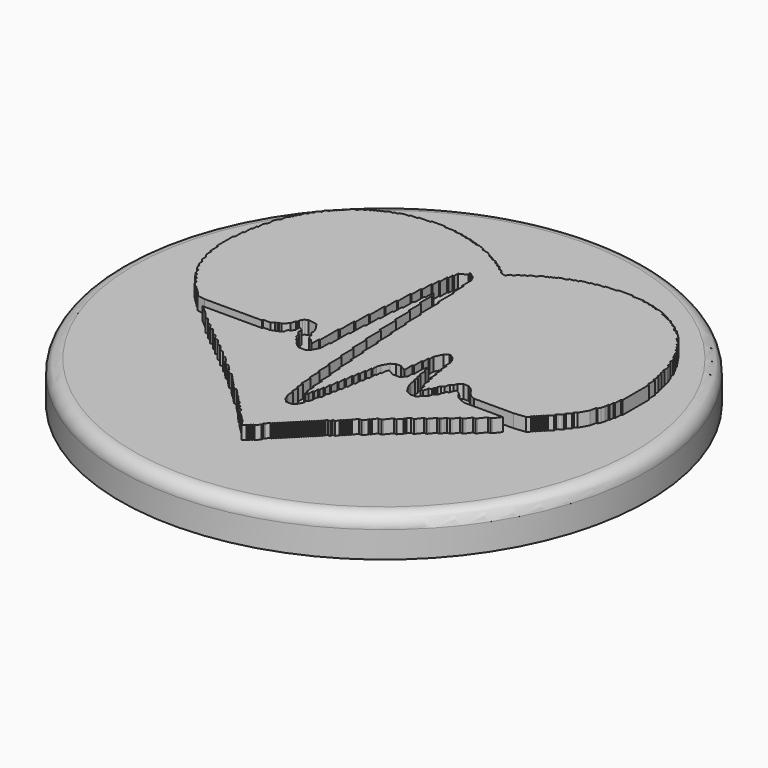
from build123d import *

# Parameters (mm, degrees)
F0_W     = 20
F0_H     = 3
F4_DEPTH = 1
F5_R     = 1


with BuildPart() as f1:
    # F0 (on Front) → F1 (revolve)
    with BuildSketch(Plane.XZ):
        with Locations((-10, 1.5)):
            Rectangle(F0_W, F0_H)
    revolve(axis=Axis((0, 0, 1.5), (0, 0, 1)))

    # F3 (on offset) → F4 (join)
    with BuildSketch(Plane.XY.offset(3)):
        Polygon((-6.828087, 14), (-7.602906, 14), (-7.602906, 13.903148), (-7.893462, 13.903148), (-8.184019, 13.903148), (-8.474576, 13.903148), (-8.474576, 13.806295), (-9.05569, 13.806295), (-9.05569, 13.709443), (-9.443099, 13.709443), (-9.733656, 13.612591), (-9.733656, 13.515738), (-10.024213, 13.515738), (-10.024213, 13.418886), (-10.31477, 13.418886), (-10.508475, 13.225182), (-10.702179, 13.225182), (-10.702179, 13.128329), (-10.895884, 13.128329), (-10.895884, 13.031477), (-11.089588, 13.031477), (-11.089588, 12.934625), (-11.283293, 12.934625), (-11.283293, 12.837772), (-11.476998, 12.837772), (-11.57385, 12.644068), (-11.767554, 12.644068), (-11.961259, 12.353511), (-12.154964, 12.353511), (-12.251816, 12.256659), (-12.445521, 12.062954), (-12.445521, 11.966102), (-12.542373, 11.966102), (-12.542373, 11.869249), (-12.639225, 11.869249), (-12.639225, 11.772397), (-12.736077, 11.772397), (-12.736077, 11.675545), (-12.83293, 11.675545), (-12.83293, 11.578692), (-12.929782, 11.578692), (-12.929782, 11.48184), (-13.026634, 11.48184), (-13.026634, 11.384988), (-13.123487, 11.384988), (-13.123487, 11.288136), (-13.414044, 11.094431), (-13.414044, 10.900726), (-13.7046, 10.707022), (-13.7046, 10.513317), (-13.898305, 10.416465), (-13.898305, 10.22276), (-14.09201, 10.125908), (-14.188862, 9.738499), (-14.285714, 9.738499), (-14.285714, 9.544794), (-14.382567, 9.544794), (-14.382567, 9.35109), (-14.479419, 9.35109), (-14.479419, 9.157385), (-14.576271, 9.157385), (-14.673123, 8.96368), (-14.673123, 8.673123), (-14.866828, 8.479419), (-14.96368, 8.188862), (-14.96368, 7.801453), (-15.157385, 7.510896), (-15.157385, 7.026634), (-15.254237, 7.026634), (-15.254237, 6.639225), (-15.35109, 6.639225), (-15.35109, 5.961259), (-15.447942, 5.961259), (-15.447942, 5.186441), (-15.544794, 5.186441), (-15.544794, 4.895884), (-15.544794, 4.508475), (-15.544794, 4.411622), (-15.544794, 4.31477), (-15.544794, 4.217918), (-15.544794, 3.636804), (-15.447942, 3.636804), (-15.447942, 2.861985), (-15.35109, 2.861985), (-15.35109, 2.377724), (-15.157385, 2.087167), (-15.157385, 1.699758), (-14.96368, 1.506053), (-14.96368, 1.215496), (-14.866828, 1.021792), (-14.769976, 1.021792), (-14.769976, 0.828087), (-14.673123, 0.634383), (-14.479419, 0.53753), (-14.382567, 0.150121), (-14.188862, 0.053269), (-14.188862, -0.140436), (-13.898305, -0.33414), (-13.898305, -0.527845), (-13.607748, -0.72155), (-13.607748, -0.915254), (-13.510896, -1.012107), (-13.317191, -1.205811), (-13.220339, -1.205811), (-13.220339, -1.302663), (-13.123487, -1.302663), (-13.123487, -1.399516), (-13.026634, -1.399516), (-13.026634, -1.496368), (-12.929782, -1.496368), (-12.929782, -1.59322), (-12.83293, -1.59322), (-12.83293, -1.690073), (-12.736077, -1.690073), (-12.445521, -2.077482), (-11.864407, -2.174334), (-11.767554, -2.174334), (-11.670702, -2.174334), (-11.57385, -2.174334), (-11.476998, -2.174334), (-11.380145, -2.174334), (-11.283293, -2.174334), (-11.186441, -2.174334), (-11.089588, -2.174334), (-10.992736, -2.174334), (-10.895884, -2.174334), (-10.799031, -2.174334), (-10.702179, -2.174334), (-10.605327, -2.174334), (-10.508475, -2.174334), (-10.411622, -2.174334), (-10.31477, -2.174334), (-10.217918, -2.174334), (-10.121065, -2.174334), (-10.024213, -2.174334), (-9.927361, -2.174334), (-9.830508, -2.174334), (-9.733656, -2.174334), (-9.636804, -2.174334), (-9.539952, -2.174334), (-9.443099, -2.174334), (-9.346247, -2.174334), (-9.249395, -2.174334), (-9.152542, -2.174334), (-9.05569, -2.174334), (-8.958838, -2.174334), (-8.861985, -2.174334), (-8.765133, -2.174334), (-8.668281, -2.174334), (-8.571429, -2.174334), (-8.474576, -2.174334), (-8.377724, -2.174334), (-8.280872, -2.174334), (-8.184019, -2.174334), (-8.087167, -2.174334), (-7.506053, -2.174334), (-7.506053, -2.077482), (-6.924939, -2.077482), (-6.731235, -1.883777), (-6.53753, -1.883777), (-6.53753, -1.786925), (-6.343826, -1.786925), (-5.956416, -1.399516), (-5.859564, -1.012107), (-5.762712, -1.012107), (-5.762712, -0.818402), (-5.66586, -0.624697), (-5.569007, -0.527845), (-5.375303, -0.430993), (-4.697337, -0.527845), (-4.40678, -0.915254), (-4.213075, -1.302663), (-4.213075, -1.59322), (-4.116223, -1.786925), (-4.01937, -1.786925), (-4.01937, -1.98063), (-3.922518, -2.174334), (-3.728814, -2.271186), (-3.341404, -2.658596), (-3.341404, -1.98063), (-3.244552, -1.98063), (-3.244552, -1.690073), (-3.244552, -1.302663), (-3.244552, -1.205811), (-3.244552, -1.108959), (-3.244552, -1.012107), (-3.244552, -0.915254), (-3.244552, -0.818402), (-3.244552, -0.72155), (-3.244552, -0.624697), (-3.244552, -0.237288), (-3.1477, -0.237288), (-3.1477, 0.053269), (-3.1477, 0.440678), (-3.1477, 0.53753), (-3.1477, 0.634383), (-3.1477, 0.731235), (-3.1477, 1.118644), (-3.050847, 1.118644), (-3.050847, 1.409201), (-3.050847, 2.377724), (-2.953995, 2.377724), (-2.953995, 2.668281), (-2.953995, 3.05569), (-2.953995, 3.152542), (-2.953995, 3.249395), (-2.953995, 3.346247), (-2.953995, 3.733656), (-2.857143, 3.733656), (-2.857143, 4.024213), (-2.857143, 4.799031), (-2.760291, 4.799031), (-2.760291, 5.089588), (-2.760291, 5.961259), (-2.663438, 5.961259), (-2.663438, 6.251816), (-2.663438, 6.542373), (-2.663438, 6.83293), (-2.566586, 6.83293), (-2.566586, 7.123487), (-2.566586, 7.414044), (-2.566586, 7.7046), (-2.469734, 7.7046), (-2.469734, 8.285714), (-2.372881, 8.285714), (-2.372881, 8.96368), (-2.276029, 8.96368), (-2.276029, 9.35109), (-2.179177, 9.35109), (-2.179177, 9.738499), (-1.598063, 10.029056), (-1.694915, 10.22276), (-1.598063, 10.22276), (-1.210654, 9.932203), (-1.016949, 9.544794), (-1.016949, 9.35109), (-1.016949, 8.673123), (-0.920097, 8.673123), (-0.920097, 8.382567), (-0.920097, 7.7046), (-0.823245, 7.7046), (-0.823245, 7.414044), (-0.823245, 7.026634), (-0.823245, 6.929782), (-0.823245, 6.83293), (-0.823245, 6.736077), (-0.823245, 6.154964), (-0.726392, 6.154964), (-0.726392, 5.864407), (-0.726392, 5.476998), (-0.726392, 5.380145), (-0.726392, 5.283293), (-0.726392, 5.186441), (-0.726392, 5.089588), (-0.726392, 4.992736), (-0.726392, 4.895884), (-0.726392, 4.799031), (-0.726392, 4.31477), (-0.62954, 4.31477), (-0.62954, 4.024213), (-0.62954, 3.636804), (-0.62954, 3.539952), (-0.62954, 3.443099), (-0.62954, 3.346247), (-0.62954, 2.765133), (-0.532688, 2.765133), (-0.532688, 2.474576), (-0.532688, 2.087167), (-0.532688, 1.990315), (-0.532688, 1.893462), (-0.532688, 1.79661), (-0.532688, 1.312349), (-0.435835, 1.312349), (-0.435835, 1.021792), (-0.435835, 0.634383), (-0.435835, 0.53753), (-0.435835, 0.440678), (-0.435835, 0.343826), (-0.435835, -0.140436), (-0.338983, -0.140436), (-0.338983, -0.430993), (-0.338983, -0.818402), (-0.338983, -0.915254), (-0.338983, -1.012107), (-0.338983, -1.108959), (-0.338983, -1.59322), (-0.242131, -1.59322), (-0.242131, -1.883777), (-0.242131, -2.8523), (-0.145278, -2.8523), (-0.145278, -3.142857), (-0.145278, -4.11138), (-0.048426, -4.11138), (-0.048426, -4.401937), (-0.048426, -5.079903), (0.048426, -5.079903), (0.048426, -5.37046), (0.048426, -6.048426), (0.145278, -6.048426), (0.145278, -6.338983), (0.145278, -6.62954), (0.145278, -6.920097), (0.242131, -6.920097), (0.242131, -7.598063), (0.338983, -7.598063), (0.338983, -7.985472), (0.435835, -7.985472), (0.532688, -7.791768), (0.532688, -7.404358), (0.62954, -7.404358), (0.62954, -7.016949), (0.726392, -7.016949), (0.726392, -6.62954), (0.823245, -6.62954), (0.823245, -6.145278), (0.920097, -6.145278), (0.920097, -5.564165), (1.016949, -5.564165), (1.016949, -4.983051), (1.113801, -4.983051), (1.113801, -4.401937), (1.210654, -4.401937), (1.210654, -3.917676), (1.307506, -3.917676), (1.307506, -3.433414), (1.404358, -3.433414), (1.404358, -2.949153), (1.501211, -2.949153), (1.501211, -2.561743), (1.598063, -2.271186), (1.88862, -1.786925), (2.179177, -1.59322), (2.566586, -1.59322), (3.050847, -1.883777), (3.050847, -1.108959), (3.1477, -1.108959), (3.1477, -0.33414), (3.244552, -0.33414), (3.244552, 0.150121), (3.341404, 0.150121), (3.341404, 0.53753), (3.631961, 1.118644), (3.922518, 1.312349), (4.01937, 1.312349), (4.309927, 1.118644), (4.503632, 0.828087), (4.600484, 0.53753), (4.600484, 0.053269), (4.697337, 0.053269), (4.697337, -0.527845), (4.794189, -0.527845), (4.794189, -1.108959), (4.891041, -1.108959), (4.891041, -1.690073), (4.987893, -1.690073), (4.987893, -2.077482), (5.084746, -2.077482), (5.084746, -2.464891), (5.181598, -2.755448), (5.27845, -2.755448), (5.375303, -3.239709), (5.569007, -3.239709), (5.66586, -2.8523), (5.859564, -2.755448), (5.859564, -2.561743), (5.956416, -2.561743), (5.956416, -2.368039), (6.053269, -2.174334), (6.246973, -2.077482), (6.343826, -1.690073), (6.53753, -1.59322), (6.634383, -1.302663), (6.924939, -1.108959), (7.312349, -1.108959), (7.602906, -1.302663), (7.79661, -1.496368), (7.79661, -1.59322), (7.893462, -1.59322), (7.893462, -1.690073), (8.184019, -1.98063), (8.571429, -2.174334), (8.958838, -2.174334), (9.05569, -2.174334), (9.152542, -2.174334), (9.249395, -2.174334), (9.346247, -2.174334), (9.443099, -2.174334), (9.539952, -2.174334), (9.636804, -2.174334), (9.733656, -2.174334), (9.830508, -2.174334), (9.927361, -2.174334), (10.024213, -2.174334), (10.121065, -2.174334), (10.217918, -2.174334), (10.31477, -2.174334), (10.411622, -2.174334), (10.508475, -2.174334), (10.605327, -2.174334), (10.702179, -2.174334), (10.799031, -2.174334), (10.895884, -2.174334), (10.992736, -2.174334), (11.089588, -2.174334), (11.186441, -2.174334), (11.283293, -2.174334), (11.380145, -2.174334), (11.476998, -2.174334), (11.57385, -2.174334), (12.445521, -2.077482), (12.639225, -1.883777), (12.639225, -1.786925), (12.736077, -1.786925), (12.736077, -1.690073), (12.83293, -1.690073), (12.83293, -1.59322), (12.929782, -1.59322), (12.929782, -1.496368), (13.026634, -1.496368), (13.026634, -1.399516), (13.123487, -1.399516), (13.123487, -1.302663), (13.220339, -1.302663), (13.220339, -1.205811), (13.317191, -1.205811), (13.317191, -1.108959), (13.607748, -0.915254), (13.607748, -0.72155), (13.7046, -0.624697), (13.898305, -0.527845), (13.995157, -0.430993), (13.995157, -0.237288), (14.285714, -0.043584), (14.285714, 0.150121), (14.479419, 0.246973), (14.866828, 0.924939), (14.96368, 1.409201), (15.060533, 1.409201), (15.157385, 1.602906), (15.254237, 1.893462), (15.254237, 2.184019), (15.35109, 2.184019), (15.35109, 2.571429), (15.447942, 2.571429), (15.447942, 3.152542), (15.544794, 3.152542), (15.544794, 3.443099), (15.544794, 3.830508), (15.544794, 3.927361), (15.544794, 4.024213), (15.544794, 4.121065), (15.544794, 4.217918), (15.544794, 4.31477), (15.544794, 4.411622), (15.544794, 4.508475), (15.544794, 4.605327), (15.544794, 4.702179), (15.544794, 4.799031), (15.544794, 4.895884), (15.544794, 4.992736), (15.544794, 5.089588), (15.544794, 5.186441), (15.544794, 5.283293), (15.544794, 5.670702), (15.447942, 5.670702), (15.447942, 6.348668), (15.35109, 6.348668), (15.35109, 6.83293), (15.254237, 6.83293), (15.254237, 7.220339), (15.157385, 7.220339), (15.157385, 7.607748), (15.060533, 7.607748), (15.060533, 7.995157), (14.96368, 8.285714), (14.866828, 8.285714), (14.866828, 8.576271), (14.673123, 8.769976), (14.673123, 9.060533), (14.576271, 9.254237), (14.479419, 9.254237), (14.479419, 9.447942), (14.382567, 9.447942), (14.382567, 9.641646), (14.285714, 9.641646), (14.188862, 10.029056), (13.995157, 10.125908), (13.995157, 10.319613), (13.801453, 10.416465), (13.801453, 10.610169), (13.607748, 10.707022), (13.607748, 10.900726), (13.123487, 11.288136), (13.123487, 11.48184), (13.026634, 11.578692), (12.83293, 11.772397), (12.736077, 11.772397), (12.736077, 11.869249), (12.639225, 11.869249), (12.542373, 12.062954), (12.348668, 12.062954), (12.251816, 12.159806), (12.154964, 12.353511), (12.058111, 12.450363), (11.864407, 12.450363), (11.767554, 12.644068), (11.57385, 12.644068), (11.476998, 12.837772), (11.089588, 12.934625), (11.089588, 13.031477), (10.895884, 13.031477), (10.895884, 13.128329), (10.702179, 13.128329), (10.702179, 13.225182), (10.508475, 13.225182), (10.508475, 13.322034), (10.31477, 13.418886), (10.024213, 13.515738), (9.733656, 13.515738), (9.733656, 13.612591), (9.443099, 13.612591), (9.443099, 13.709443), (9.05569, 13.709443), (9.05569, 13.806295), (8.571429, 13.806295), (8.571429, 13.903148), (8.280872, 13.903148), (7.990315, 13.903148), (7.699758, 13.903148), (7.699758, 14), (7.409201, 14), (6.53753, 14), (6.53753, 13.903148), (6.246973, 13.903148), (5.956416, 13.903148), (5.66586, 13.903148), (5.66586, 13.806295), (5.084746, 13.806295), (5.084746, 13.709443), (4.697337, 13.709443), (4.697337, 13.612591), (4.309927, 13.612591), (4.01937, 13.515738), (4.01937, 13.418886), (3.728814, 13.418886), (3.728814, 13.322034), (3.438257, 13.322034), (3.244552, 13.128329), (2.953995, 13.128329), (2.760291, 13.031477), (2.760291, 12.934625), (2.566586, 12.934625), (2.566586, 12.837772), (2.372881, 12.837772), (2.372881, 12.74092), (2.179177, 12.74092), (2.179177, 12.644068), (1.985472, 12.644068), (1.791768, 12.547215), (1.694915, 12.353511), (1.307506, 12.256659), (1.210654, 12.062954), (1.016949, 12.062954), (0.920097, 11.869249), (0.726392, 11.869249), (0.532688, 11.578692), (0.338983, 11.578692), (0.145278, 11.288136), (-0.242131, 11.384988), (-0.435835, 11.675545), (-0.62954, 11.675545), (-0.823245, 11.966102), (-1.016949, 11.966102), (-1.113801, 12.159806), (-1.307506, 12.159806), (-1.404358, 12.353511), (-1.791768, 12.450363), (-1.791768, 12.547215), (-1.985472, 12.547215), (-1.985472, 12.644068), (-2.179177, 12.644068), (-2.179177, 12.74092), (-2.469734, 12.934625), (-2.953995, 13.031477), (-2.953995, 13.128329), (-3.1477, 13.225182), (-3.438257, 13.322034), (-3.728814, 13.322034), (-3.728814, 13.418886), (-4.01937, 13.418886), (-4.01937, 13.515738), (-4.309927, 13.515738), (-4.309927, 13.612591), (-4.697337, 13.612591), (-4.697337, 13.709443), (-5.084746, 13.709443), (-5.084746, 13.806295), (-5.66586, 13.806295), (-5.66586, 13.903148), (-5.956416, 13.903148), (-6.246973, 13.903148), (-6.53753, 13.903148), (-6.53753, 14), align=None)
        Polygon((-1.694915, 6.542373), (-1.791768, 6.929782), (-1.791768, 6.154964), (-1.88862, 6.154964), (-1.88862, 5.864407), (-1.88862, 5.57385), (-1.88862, 5.283293), (-1.985472, 5.283293), (-1.985472, 4.992736), (-1.985472, 4.31477), (-2.082324, 4.31477), (-2.082324, 3.539952), (-2.179177, 3.539952), (-2.179177, 3.249395), (-2.179177, 2.377724), (-2.276029, 2.377724), (-2.276029, 2.087167), (-2.276029, 1.118644), (-2.372881, 1.118644), (-2.372881, 0.828087), (-2.372881, 0.440678), (-2.372881, 0.343826), (-2.372881, 0.246973), (-2.372881, 0.150121), (-2.372881, -0.237288), (-2.469734, -0.237288), (-2.469734, -0.527845), (-2.469734, -0.915254), (-2.469734, -1.012107), (-2.469734, -1.108959), (-2.469734, -1.205811), (-2.469734, -1.302663), (-2.469734, -1.399516), (-2.469734, -1.496368), (-2.469734, -1.59322), (-2.469734, -1.98063), (-2.566586, -1.98063), (-2.566586, -2.755448), (-2.857143, -3.336562), (-3.1477, -3.530266), (-3.631961, -3.530266), (-3.922518, -3.336562), (-4.116223, -3.142857), (-4.116223, -3.046005), (-4.213075, -3.046005), (-4.213075, -2.949153), (-4.40678, -2.8523), (-4.40678, -2.658596), (-4.600484, -2.561743), (-4.697337, -2.174334), (-4.794189, -2.174334), (-4.891041, -1.98063), (-4.891041, -1.690073), (-5.181598, -1.496368), (-5.181598, -1.883777), (-5.375303, -2.174334), (-5.472155, -2.174334), (-5.569007, -2.271186), (-5.569007, -2.464891), (-5.859564, -2.658596), (-6.343826, -2.8523), (-6.828087, -2.8523), (-6.828087, -2.949153), (-7.118644, -2.949153), (-7.506053, -2.949153), (-7.602906, -2.949153), (-7.699758, -2.949153), (-7.79661, -2.949153), (-7.893462, -2.949153), (-7.990315, -2.949153), (-8.087167, -2.949153), (-8.184019, -2.949153), (-8.280872, -2.949153), (-8.377724, -2.949153), (-8.474576, -2.949153), (-8.571429, -2.949153), (-8.668281, -2.949153), (-8.765133, -2.949153), (-8.861985, -2.949153), (-8.958838, -2.949153), (-9.05569, -2.949153), (-9.152542, -2.949153), (-9.249395, -2.949153), (-9.346247, -2.949153), (-9.443099, -2.949153), (-9.539952, -2.949153), (-9.636804, -2.949153), (-9.733656, -2.949153), (-9.830508, -2.949153), (-9.927361, -2.949153), (-10.024213, -2.949153), (-10.121065, -2.949153), (-10.217918, -2.949153), (-10.31477, -2.949153), (-10.411622, -2.949153), (-10.508475, -2.949153), (-10.605327, -2.949153), (-10.702179, -2.949153), (-10.799031, -2.949153), (-10.895884, -2.949153), (-11.380145, -2.949153), (-10.799031, -3.433414), (-10.702179, -3.530266), (-10.31477, -4.014528), (-10.121065, -4.014528), (-10.024213, -4.11138), (-9.733656, -4.498789), (-9.539952, -4.498789), (-9.443099, -4.595642), (-9.346247, -4.789346), (-9.249395, -4.886199), (-9.05569, -4.886199), (-8.958838, -4.983051), (-8.668281, -5.37046), (-8.474576, -5.37046), (-8.377724, -5.467312), (-8.280872, -5.661017), (-8.184019, -5.757869), (-7.990315, -5.757869), (-7.893462, -5.854722), (-7.602906, -6.242131), (-7.409201, -6.242131), (-7.312349, -6.338983), (-7.021792, -6.726392), (-6.828087, -6.726392), (-6.731235, -6.823245), (-6.440678, -7.210654), (-6.246973, -7.210654), (-6.150121, -7.307506), (-5.956416, -7.501211), (-5.956416, -7.598063), (-5.859564, -7.598063), (-5.859564, -7.694915), (-5.66586, -7.88862), (-5.472155, -7.88862), (-5.375303, -7.985472), (-5.181598, -8.179177), (-5.181598, -8.276029), (-5.084746, -8.276029), (-5.084746, -8.372881), (-4.794189, -8.663438), (-4.600484, -8.663438), (-4.503632, -8.760291), (-4.309927, -8.953995), (-4.309927, -9.050847), (-4.213075, -9.050847), (-4.213075, -9.1477), (-4.116223, -9.1477), (-4.116223, -9.244552), (-4.01937, -9.244552), (-4.01937, -9.341404), (-3.922518, -9.341404), (-3.922518, -9.438257), (-3.825666, -9.438257), (-3.825666, -9.535109), (-3.728814, -9.535109), (-3.728814, -9.631961), (-3.631961, -9.631961), (-3.631961, -9.728814), (-3.341404, -10.01937), (-3.1477, -10.01937), (-3.050847, -10.116223), (-2.857143, -10.309927), (-2.857143, -10.40678), (-2.760291, -10.40678), (-2.760291, -10.503632), (-2.663438, -10.503632), (-2.663438, -10.600484), (-2.566586, -10.600484), (-2.566586, -10.697337), (-2.469734, -10.697337), (-2.469734, -10.794189), (-2.372881, -10.794189), (-2.372881, -10.891041), (-2.276029, -10.891041), (-2.276029, -10.987893), (-2.179177, -10.987893), (-2.179177, -11.084746), (-1.985472, -11.181598), (-1.88862, -11.27845), (-1.88862, -11.472155), (-1.598063, -11.569007), (-1.598063, -11.762712), (-1.307506, -11.859564), (-1.210654, -12.150121), (-1.016949, -12.343826), (-0.920097, -12.343826), (-0.920097, -12.440678), (-0.823245, -12.440678), (-0.823245, -12.53753), (-0.726392, -12.53753), (-0.726392, -12.634383), (-0.62954, -12.634383), (-0.62954, -12.731235), (-0.532688, -12.731235), (-0.532688, -12.828087), (-0.435835, -12.828087), (-0.048426, -13.409201), (0.145278, -13.215496), (0.242131, -13.215496), (0.242131, -13.118644), (0.338983, -13.118644), (0.338983, -13.021792), (0.435835, -13.021792), (0.435835, -12.924939), (0.532688, -12.924939), (0.823245, -12.634383), (0.823245, -12.440678), (0.920097, -12.343826), (1.113801, -12.150121), (1.210654, -12.150121), (1.210654, -12.053269), (1.307506, -12.053269), (1.307506, -11.956416), (1.404358, -11.956416), (1.404358, -11.859564), (1.501211, -11.859564), (1.501211, -11.762712), (1.598063, -11.762712), (1.598063, -11.66586), (1.694915, -11.66586), (1.694915, -11.569007), (1.791768, -11.569007), (1.791768, -11.472155), (1.88862, -11.472155), (1.88862, -11.375303), (1.985472, -11.375303), (1.985472, -11.27845), (2.082324, -11.27845), (2.082324, -11.181598), (2.179177, -11.181598), (2.179177, -11.084746), (2.276029, -11.084746), (2.276029, -10.987893), (2.372881, -10.987893), (2.372881, -10.891041), (2.469734, -10.891041), (2.469734, -10.794189), (2.566586, -10.794189), (2.566586, -10.697337), (2.663438, -10.697337), (2.663438, -10.600484), (2.760291, -10.600484), (2.760291, -10.503632), (2.857143, -10.503632), (2.857143, -10.40678), (2.953995, -10.40678), (2.953995, -10.309927), (3.050847, -10.309927), (3.050847, -10.213075), (3.1477, -10.213075), (3.1477, -10.116223), (3.244552, -10.116223), (3.244552, -10.01937), (3.341404, -10.01937), (3.341404, -9.922518), (3.438257, -9.922518), (3.438257, -9.825666), (3.535109, -9.728814), (3.728814, -9.728814), (3.728814, -9.535109), (3.922518, -9.535109), (4.01937, -9.438257), (4.116223, -9.341404), (4.116223, -9.244552), (4.213075, -9.244552), (4.213075, -9.1477), (4.309927, -9.1477), (4.309927, -9.050847), (4.40678, -9.050847), (4.40678, -8.953995), (4.503632, -8.953995), (4.503632, -8.857143), (4.600484, -8.857143), (4.600484, -8.760291), (4.891041, -8.469734), (5.084746, -8.469734), (5.181598, -8.372881), (5.375303, -8.179177), (5.375303, -8.082324), (5.472155, -8.082324), (5.472155, -7.985472), (5.762712, -7.694915), (5.956416, -7.694915), (6.053269, -7.598063), (6.440678, -7.113801), (6.634383, -7.113801), (6.731235, -7.016949), (6.924939, -6.823245), (6.924939, -6.726392), (7.021792, -6.726392), (7.021792, -6.62954), (7.215496, -6.435835), (7.409201, -6.435835), (7.506053, -6.338983), (7.79661, -5.951574), (7.990315, -5.951574), (8.087167, -5.854722), (8.377724, -5.467312), (8.571429, -5.467312), (8.668281, -5.37046), (8.765133, -5.176755), (8.861985, -5.079903), (9.05569, -5.079903), (9.152542, -4.983051), (9.443099, -4.595642), (9.636804, -4.595642), (9.733656, -4.498789), (10.024213, -4.11138), (10.217918, -4.11138), (10.31477, -4.014528), (10.702179, -3.530266), (10.895884, -3.530266), (10.992736, -3.433414), (11.380145, -2.949153), (10.992736, -2.949153), (10.895884, -2.949153), (10.799031, -2.949153), (10.702179, -2.949153), (10.605327, -2.949153), (10.508475, -2.949153), (10.411622, -2.949153), (10.31477, -2.949153), (10.217918, -2.949153), (10.121065, -2.949153), (10.024213, -2.949153), (9.927361, -2.949153), (9.830508, -2.949153), (9.733656, -2.949153), (9.636804, -2.949153), (9.539952, -2.949153), (9.443099, -2.949153), (9.346247, -2.949153), (9.249395, -2.949153), (9.152542, -2.949153), (8.474576, -2.949153), (8.184019, -2.8523), (7.79661, -2.658596), (7.602906, -2.464891), (7.602906, -2.368039), (7.506053, -2.368039), (7.506053, -2.271186), (7.118644, -1.98063), (6.924939, -2.464891), (6.731235, -2.561743), (6.731235, -2.755448), (6.634383, -2.755448), (6.634383, -2.949153), (6.53753, -3.142857), (6.343826, -3.239709), (6.246973, -3.627119), (5.66586, -4.11138), (5.27845, -4.11138), (4.891041, -3.917676), (4.697337, -3.627119), (4.503632, -3.239709), (4.40678, -2.949153), (4.40678, -2.561743), (4.309927, -2.561743), (4.309927, -2.174334), (4.213075, -2.174334), (4.213075, -1.786925), (4.116223, -1.786925), (4.116223, -1.205811), (4.01937, -1.205811), (4.01937, -0.818402), (3.922518, -0.818402), (3.825666, -1.108959), (3.825666, -1.98063), (3.728814, -1.98063), (3.728814, -2.368039), (3.438257, -2.755448), (2.857143, -2.755448), (2.372881, -2.464891), (2.276029, -2.755448), (2.276029, -3.046005), (2.179177, -3.046005), (2.179177, -3.433414), (2.082324, -3.433414), (2.082324, -4.014528), (1.985472, -4.014528), (1.985472, -4.498789), (1.88862, -4.498789), (1.88862, -5.079903), (1.791768, -5.079903), (1.791768, -5.661017), (1.694915, -5.661017), (1.694915, -6.145278), (1.598063, -6.145278), (1.598063, -6.62954), (1.501211, -6.62954), (1.501211, -7.113801), (1.404358, -7.113801), (1.404358, -7.598063), (1.210654, -7.88862), (1.210654, -8.276029), (1.113801, -8.566586), (1.016949, -8.566586), (1.016949, -8.857143), (0.823245, -9.244552), (0.726392, -9.341404), (0.532688, -9.438257), (0.145278, -9.438257), (-0.145278, -9.1477), (-0.338983, -8.663438), (-0.338983, -8.179177), (-0.435835, -8.179177), (-0.435835, -7.598063), (-0.532688, -7.598063), (-0.532688, -7.016949), (-0.62954, -7.016949), (-0.62954, -6.726392), (-0.62954, -6.435835), (-0.62954, -6.145278), (-0.726392, -6.145278), (-0.726392, -5.854722), (-0.726392, -5.176755), (-0.823245, -5.176755), (-0.823245, -4.886199), (-0.823245, -4.11138), (-0.920097, -4.11138), (-0.920097, -3.820823), (-0.920097, -2.8523), (-1.016949, -2.8523), (-1.016949, -2.561743), (-1.016949, -1.59322), (-1.113801, -1.59322), (-1.113801, -1.302663), (-1.113801, -0.915254), (-1.113801, -0.818402), (-1.113801, -0.72155), (-1.113801, -0.624697), (-1.113801, -0.237288), (-1.210654, -0.237288), (-1.210654, 0.053269), (-1.210654, 0.440678), (-1.210654, 0.53753), (-1.210654, 0.634383), (-1.210654, 0.731235), (-1.210654, 1.215496), (-1.307506, 1.215496), (-1.307506, 1.506053), (-1.307506, 1.893462), (-1.307506, 1.990315), (-1.307506, 2.087167), (-1.307506, 2.184019), (-1.307506, 2.765133), (-1.404358, 2.765133), (-1.404358, 3.05569), (-1.404358, 3.443099), (-1.404358, 3.539952), (-1.404358, 3.636804), (-1.404358, 3.733656), (-1.404358, 4.217918), (-1.501211, 4.217918), (-1.501211, 4.508475), (-1.501211, 5.380145), (-1.598063, 5.380145), (-1.598063, 5.670702), (-1.598063, 6.542373), align=None)
    extrude(amount=F4_DEPTH)

    # F5
    f5_edges = [f1.edges().sort_by_distance(p)[0] for p in [
        (20, 0, 3),
    ]]
    fillet(f5_edges, radius=F5_R)


solid = f1.part
